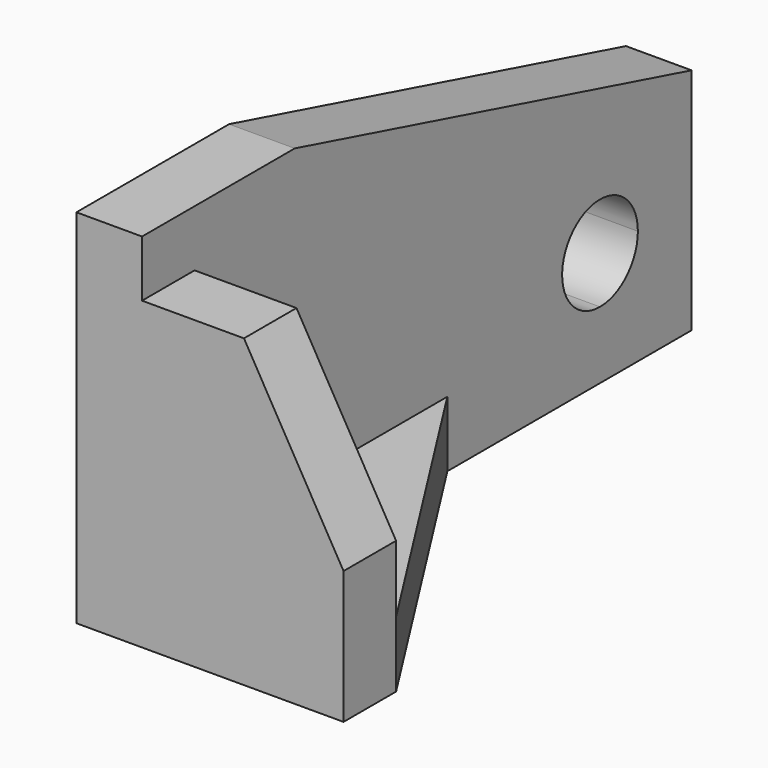
from build123d import *

# Parameters (mm, degrees)
F0_W      = 10.922
F0_H      = 60.198
F1_DEPTH  = 114.3
F3_DEPTH  = 10.922
F4_W      = 10.922
F4_H      = 50.8
F5_DEPTH  = 33.528
F7_DEPTH  = 10.922
F8_W      = 52.578
F8_H      = 10.922
F9_DEPTH  = 33.528
F11_DEPTH = 10.922
F13_DEPTH = 10.922


with BuildPart() as f1:
    # F0 (on Front) → F1 (new body)
    with BuildSketch(Plane.XZ):
        Rectangle(F0_W, F0_H)
    extrude(amount=F1_DEPTH)

    # F2 (on face) → F3 (cut)
    with BuildSketch(Plane(origin=(-5.461, 0, 0), x_dir=(0, -1, 0), z_dir=(-1, 0, 0))):
        Polygon((0, 7.979794), (82.55, 30.099), (0, 30.099), align=None)
    extrude(amount=-F3_DEPTH, mode=Mode.SUBTRACT)

    # F4 (on face) → F5 (join)
    with BuildSketch(Plane.YZ.offset(5.461)):
        with Locations((-108.839, -4.699)):
            Rectangle(F4_W, F4_H)
    extrude(amount=F5_DEPTH)

    # F6 (on face) → F7 (cut)
    with BuildSketch(Plane.XZ.offset(114.3)):
        Polygon((22.417893, 20.701), (38.989, -8.001), (38.989, 20.701), align=None)
    extrude(amount=-F7_DEPTH, mode=Mode.SUBTRACT)

    # F8 (on face) → F9 (join)
    with BuildSketch(Plane.YZ.offset(5.461)):
        with Locations((-77.089, -24.638)):
            Rectangle(F8_W, F8_H)
    extrude(amount=F9_DEPTH)

    # F10 (on face) → F11 (cut)
    with BuildSketch(Plane.XY.offset(-19.177)):
        Polygon((5.461, -50.8), (38.989, -103.378), (38.989, -100.247383), (38.989, -50.8), align=None)
    extrude(amount=-F11_DEPTH, mode=Mode.SUBTRACT)

    # F12 (on face) → F13 (cut)
    with BuildSketch(Plane.YZ.offset(5.461)):
        with BuildLine():
            ThreePointArc((-11.176, -11.049), (-24.617759, -5.481241), (-19.05, -18.923))
            ThreePointArc((-19.05, -18.923), (-13.482241, -16.616759), (-11.176, -11.049))
        make_face()
    extrude(amount=-F13_DEPTH, mode=Mode.SUBTRACT)


solid = f1.part
